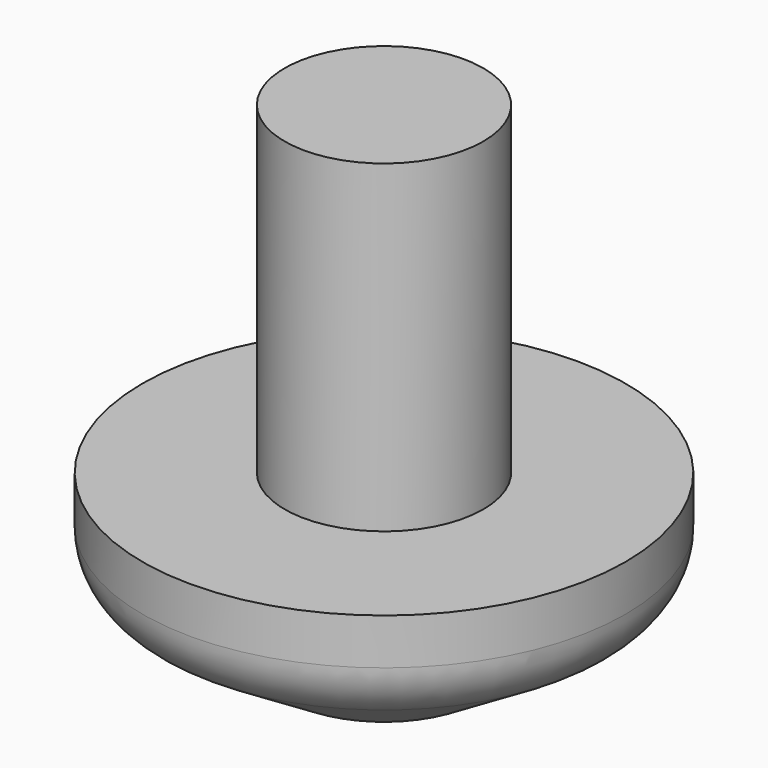
from build123d import *


with BuildPart() as f1:
    # F0 (on Front) → F1 (revolve)
    with BuildSketch(Plane.XZ):
        with BuildLine():
            Line((0, 50.8), (0, 0))
            Line((0, 0), (10.261248, 0))
            Line((10.261248, 0), (21.929258, 7.154912))
            ThreePointArc((21.929258, 7.154912), (24.1506, 9.46627), (24.959791, 12.568196))
            Line((24.959791, 12.568196), (24.959791, 17.333189))
            Line((24.959791, 17.333189), (10.261248, 17.333189))
            Line((10.261248, 17.333189), (10.261248, 50.8))
            Line((10.261248, 50.8), (0, 50.8))
        make_face()
    revolve(axis=Axis((0, 0, 25.4), (0, 0, 1)))


solid = f1.part
